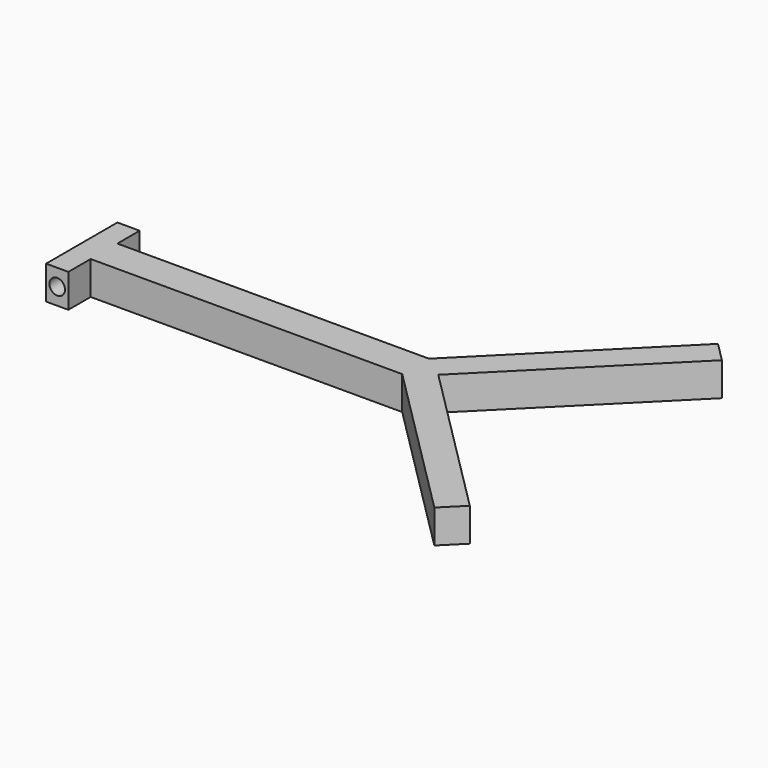
from build123d import *

# Parameters (mm, degrees)
F1_DEPTH = 30
F3_D     = 14


with BuildPart() as f1:
    # F0 (on Top) → F1 (new body)
    with BuildSketch(Plane.XY):
        Polygon((173.038869, 12.343299), (-106.605792, 12.343299), (-106.605792, -17.656701), (173.038869, -17.656701), (317.137895, -161.755726), (334.815565, -144.078057), (193.394208, -2.656701), (334.815565, 138.764656), (317.137895, 156.442325), align=None)
        Polygon((-106.605792, -17.656701), (-106.605792, 12.343299), (-106.605792, 37.343299), (-126.605792, 37.343299), (-126.605792, -42.656701), (-106.605792, -42.656701), align=None)
    extrude(amount=F1_DEPTH)

    # F3 (through all)
    with Locations(Plane.XZ.offset(42.656701)):
        with Locations((-116.605792, 15)):
            Hole(F3_D / 2)


solid = f1.part
